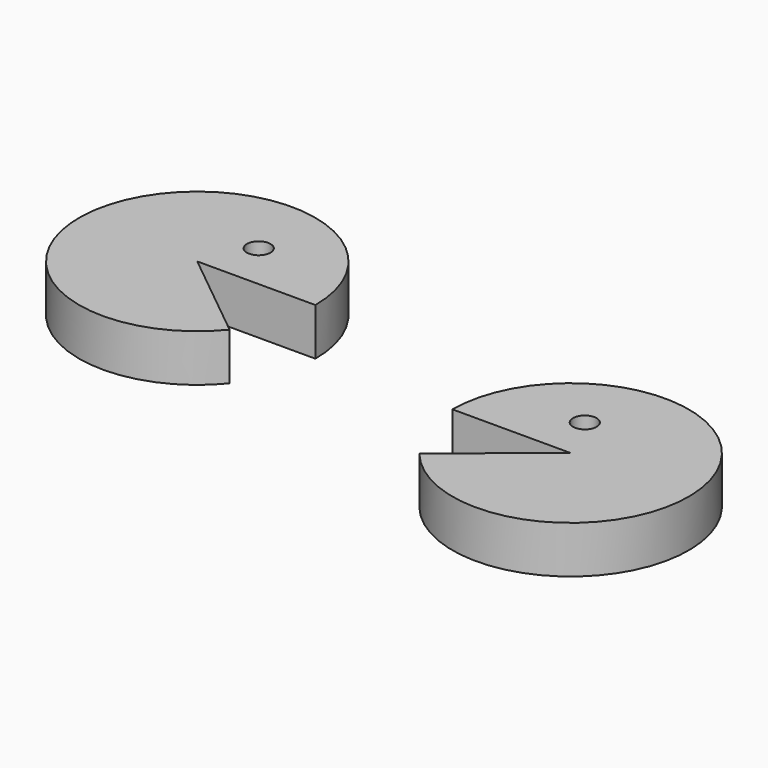
from build123d import *

# Parameters (mm, degrees)
CYLINDER002_R          = 5
CYLINDER002_DEPTH      = 25
CYLINDER003_W          = 50
CYLINDER003_H          = 20
CYLINDER003_ANGLE      = 321
CUT001_PLACEMENT_ANGLE = 180
CYLINDER001_R          = 5
CYLINDER001_DEPTH      = 25
CYLINDER_W             = 50
CYLINDER_H             = 20
CYLINDER_ANGLE         = 321


with BuildPart() as cilindro002:
    # Cylinder002 → Cylinder002 (new body)
    with BuildSketch(Plane(origin=(10, 20, 0), x_dir=(1, 0, 0), z_dir=(0, 0, 1))):
        Circle(CYLINDER002_R)
    extrude(amount=CYLINDER002_DEPTH)


with BuildPart() as cut001:
    # Cylinder003 → Cylinder003 (revolve)
    with BuildSketch(Plane.XZ):
        with Locations((25, 10)):
            Rectangle(CYLINDER003_W, CYLINDER003_H)
    revolve(axis=Axis((0, 0, 0), (0, 0, 1)), revolution_arc=CYLINDER003_ANGLE)

    # Cut001: cut Cilindro002
    add(cilindro002.part, mode=Mode.SUBTRACT)


with BuildPart() as cut001_1:
    # Cut001 placement: moved
    add(cut001.part.moved(Location((158, 0, 0))).rotate(Axis((158, 0, 0), (0, 1, 0)), CUT001_PLACEMENT_ANGLE))


with BuildPart() as cilindro001:
    # Cylinder001 → Cylinder001 (new body)
    with BuildSketch(Plane(origin=(10, 20, 0), x_dir=(1, 0, 0), z_dir=(0, 0, 1))):
        Circle(CYLINDER001_R)
    extrude(amount=CYLINDER001_DEPTH)


with BuildPart() as fusion:
    # Cylinder → Cylinder (revolve)
    with BuildSketch(Plane.XZ):
        with Locations((25, 10)):
            Rectangle(CYLINDER_W, CYLINDER_H)
    revolve(axis=Axis((0, 0, 0), (0, 0, 1)), revolution_arc=CYLINDER_ANGLE)

    # Cut: cut Cilindro001
    add(cilindro001.part, mode=Mode.SUBTRACT)

    # Fusion: union Cut001
    add(cut001_1.part)


solid = fusion.part
